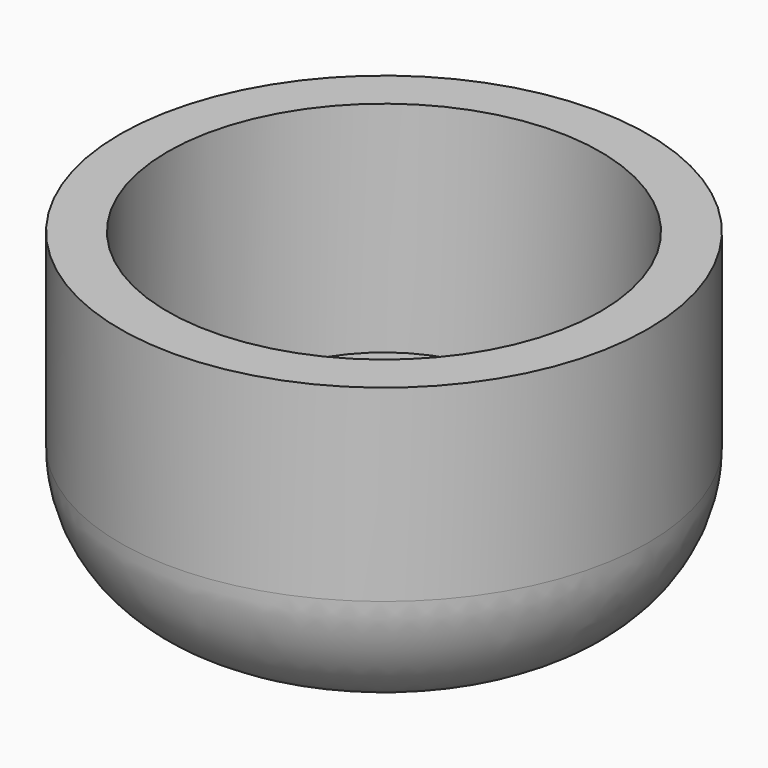
from build123d import *

# Parameters (mm, degrees)
F0_R     = 9.525
F0_R_2   = 7.8105
F0_R_3   = 6.096
F0_R_4   = 4.826
F0_R_5   = 1.905
F1_DEPTH = 2.032
F2_DEPTH = 9.525
F3_R     = 4.7625
F4_DEPTH = 3.175


with BuildPart() as f1:
    # F0 (on Top) → F1 (new body)
    with BuildSketch(Plane.XY):
        Circle(F0_R)
        Circle(F0_R_2, mode=Mode.SUBTRACT)
        Circle(F0_R_2)
        Circle(F0_R_3, mode=Mode.SUBTRACT)
        Circle(F0_R_3)
        Circle(F0_R_4, mode=Mode.SUBTRACT)
        Circle(F0_R_4)
        Circle(F0_R_5, mode=Mode.SUBTRACT)
    extrude(amount=-F1_DEPTH)

    # F0 (on Top) → F2 (join)
    with BuildSketch(Plane.XY):
        Circle(F0_R)
        Circle(F0_R_2, mode=Mode.SUBTRACT)
    extrude(amount=F2_DEPTH)

    # F3
    f3_edges = [f1.edges().sort_by_distance(p)[0] for p in [
        (-9.525, 0, -2.032),
    ]]
    fillet(f3_edges, radius=F3_R)

    # F0 (on Top) → F4 (join)
    with BuildSketch(Plane.XY):
        Circle(F0_R_4)
        Circle(F0_R_5, mode=Mode.SUBTRACT)
    extrude(amount=F4_DEPTH)


solid = f1.part
